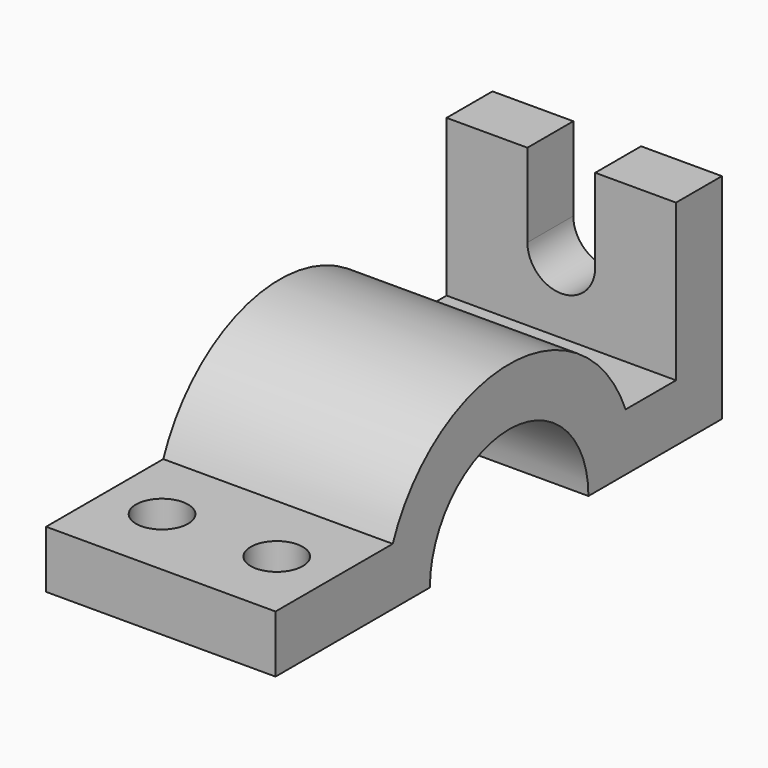
from build123d import *

# Parameters (mm, degrees)
F0_W     = 11
F0_H     = 30
F1_DEPTH = 22
F3_DEPTH = 25
F4_R     = 5
F5_DEPTH = 11


with BuildPart() as f1:
    # F0 (on Right) → F1 (new body, symmetric)
    with BuildSketch(Plane.YZ):
        with BuildLine():
            Line((-56, 0), (-30, 0))
            ThreePointArc((-30, 0), (-29.4730143031, 5.5983415304), (-27.9105714739, 11))
            Line((-27.9105714739, 11), (-56, 11))
            Line((-56, 11), (-56, 0))
        make_face()
        with BuildLine():
            ThreePointArc((-27.9105714739, 11), (-29.4730143031, 5.5983415304), (-30, 0))
            Line((-30, 0), (-19, 0))
            ThreePointArc((-19, 0), (-18.1017503893, 5.7729223833), (-15.4919333848, 11))
            Line((-15.4919333848, 11), (-27.9105714739, 11))
        make_face()
        with BuildLine():
            Line((15.4919333848, 11), (27.9105714739, 11))
            ThreePointArc((27.9105714739, 11), (0, 30), (-27.9105714739, 11))
            Line((-27.9105714739, 11), (-15.4919333848, 11))
            ThreePointArc((-15.4919333848, 11), (0, 19), (15.4919333848, 11))
        make_face()
        with BuildLine():
            Line((19, 0), (30, 0))
            ThreePointArc((30, 0), (29.4730143031, 5.5983415304), (27.9105714739, 11))
            Line((27.9105714739, 11), (15.4919333848, 11))
            ThreePointArc((15.4919333848, 11), (18.1017503893, 5.7729223833), (19, 0))
        make_face()
        with BuildLine():
            ThreePointArc((27.9105714739, 11), (29.4730143031, 5.5983415304), (30, 0))
            Line((30, 0), (51, 0))
            Line((51, 0), (51, 11))
            Line((51, 11), (40, 11))
            Line((40, 11), (27.9105714739, 11))
        make_face()
        with Locations((45.5, 26)):
            Rectangle(F0_W, F0_H)
    extrude(amount=F1_DEPTH, both=True)

    # F2 (on face) → F3 (cut)
    with BuildSketch(Plane(origin=(0, 51, 0), x_dir=(-1, 0, 0), z_dir=(0, 1, 0))):
        with BuildLine():
            ThreePointArc((-6.5, 25), (0, 31.5), (6.5, 25))
            Line((6.5, 25), (6.5, 41))
            Line((6.5, 41), (-6.5, 41))
            Line((-6.5, 41), (-6.5, 25))
        make_face()
        with BuildLine():
            Line((-6.5, 25), (6.5, 25))
            ThreePointArc((6.5, 25), (0, 31.5), (-6.5, 25))
        make_face()
        with BuildLine():
            ThreePointArc((-6.5, 25), (0, 18.5), (6.5, 25))
            Line((6.5, 25), (-6.5, 25))
        make_face()
    extrude(amount=-F3_DEPTH, mode=Mode.SUBTRACT)

    # F4 (on face) → F5 (cut, through all)
    with BuildSketch(Plane.XY.offset(11)):
        with Locations((-11, -41.955285737)):
            Circle(F4_R)
        with Locations((11, -41.955285737)):
            Circle(F4_R)
    extrude(amount=-F5_DEPTH, mode=Mode.SUBTRACT)


solid = f1.part
